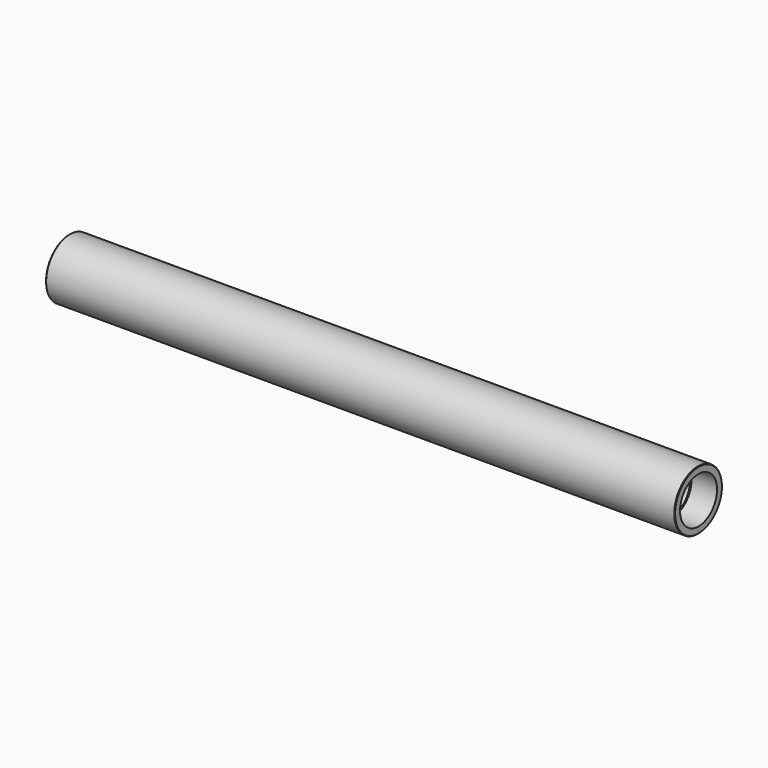
from build123d import *

# Parameters (mm, degrees)
F0_R     = 88.9
F0_R_2   = 63.5
F1_DEPTH = 939.8
F2_R     = 69.0499
F2_R_2   = 63.5
F3_DEPTH = 76.2
F4_R     = 69.05625
F5_DEPTH = 76.2
F6_SIZE  = 1.524


with BuildPart() as f1:
    # F0 (on Right) → F1 (new body, symmetric)
    with BuildSketch(Plane.YZ):
        Circle(F0_R)
        Circle(F0_R_2, mode=Mode.SUBTRACT)
    extrude(amount=F1_DEPTH, both=True)

    # F2 (on face) → F3 (cut)
    with BuildSketch(Plane.YZ.offset(939.8)):
        Circle(F2_R)
        Circle(F2_R_2, mode=Mode.SUBTRACT)
    extrude(amount=-F3_DEPTH, mode=Mode.SUBTRACT)

    # F4 (on face) → F5 (cut)
    with BuildSketch(Plane(origin=(-939.8, 0, 0), x_dir=(0, -1, 0), z_dir=(-1, 0, 0))):
        Circle(F4_R)
    extrude(amount=-F5_DEPTH, mode=Mode.SUBTRACT)

    # F6
    f6_edges = [f1.edges().sort_by_distance(p)[0] for p in [
        (-939.8, -88.9, 0),
        (939.8, -88.9, 0),
    ]]
    chamfer(f6_edges, length=F6_SIZE)


solid = f1.part
